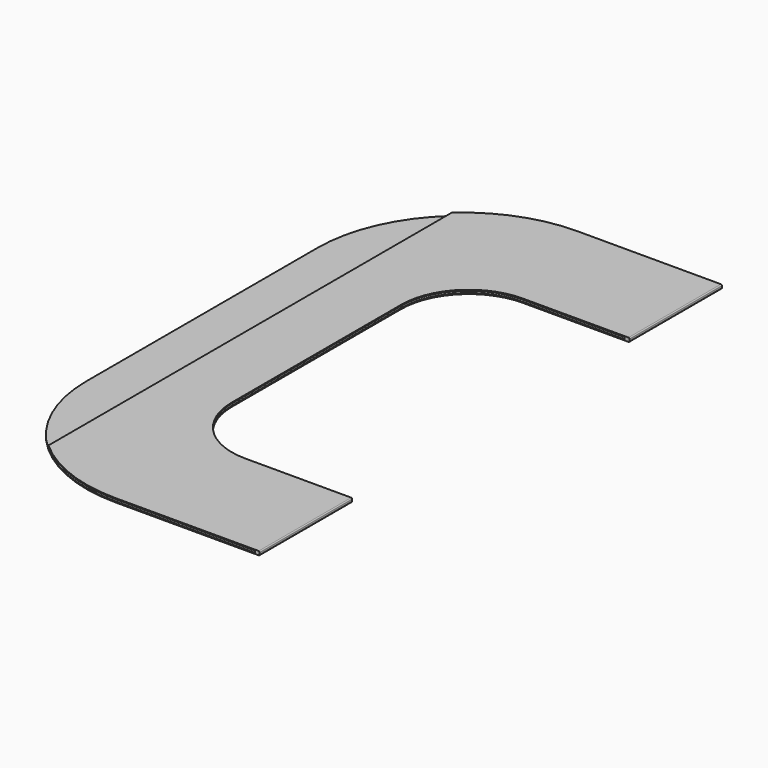
from build123d import *

# Parameters (mm, degrees)
F1_DEPTH = 1.016
F2_W     = 160.02
F2_H     = 0.508
F3_DEPTH = 74.93
F4_W     = 34.701408
F4_H     = 184.597183
F5_DEPTH = 0.508
F6_R     = 0.254
F7_R     = 0.254
F9_DEPTH = 1.017


with BuildPart() as f1:
    # F0 (on Top) → F1 (new body)
    with BuildSketch(Plane.XY):
        with BuildLine():
            Line((0, -59.393544), (0, 93.006456))
            Line((0, 93.006456), (-38.1, 93.006456))
            ThreePointArc((-38.1, 93.006456), (-65.040768, 81.847225), (-76.2, 54.906456))
            Line((-76.2, 54.906456), (-76.2, -21.293544))
            ThreePointArc((-76.2, -21.293544), (-65.040768, -48.234312), (-38.1, -59.393544))
            Line((-38.1, -59.393544), (0, -59.393544))
        make_face()
    extrude(amount=F1_DEPTH)

    # F2 (on face) → F3 (cut)
    with BuildSketch(Plane(origin=(-76.2, 0, 0), x_dir=(0, -1, 0), z_dir=(-1, 0, 0))):
        with Locations((-18.385805, 0.508)):
            Rectangle(F2_W, F2_H)
    extrude(amount=-F3_DEPTH, mode=Mode.SUBTRACT)

    # F4 (on face) → F5 (cut)
    with BuildSketch(Plane.XY.offset(1.016)):
        with Locations((-80.850704, 13.036623)):
            Rectangle(F4_W, F4_H)
    extrude(amount=-F5_DEPTH, mode=Mode.SUBTRACT)

    # F6
    f6_edges = [f1.edges().sort_by_distance(p)[0] for p in [
        (0, 16.806456, 1.016),
    ]]
    fillet(f6_edges, radius=F6_R)

    # F7
    f7_edges = [f1.edges().sort_by_distance(p)[0] for p in [
        (0, 16.806456, 0),
    ]]
    fillet(f7_edges, radius=F7_R)

    # F8 (on face) → F9 (cut, through all)
    with BuildSketch(Plane.XY.offset(1.016)):
        with BuildLine():
            Line((40.75986, 62.526456), (-28.194, 62.526456))
            ThreePointArc((-28.194, 62.526456), (-40.766359, 57.318815), (-45.974, 44.746456))
            Line((-45.974, 44.746456), (-45.974, -11.133544))
            ThreePointArc((-45.974, -11.133544), (-40.766359, -23.705902), (-28.194, -28.913544))
            Line((-28.194, -28.913544), (40.75986, -28.913544))
            Line((40.75986, -28.913544), (40.75986, 62.526456))
        make_face()
    extrude(amount=-F9_DEPTH, mode=Mode.SUBTRACT)


solid = f1.part
